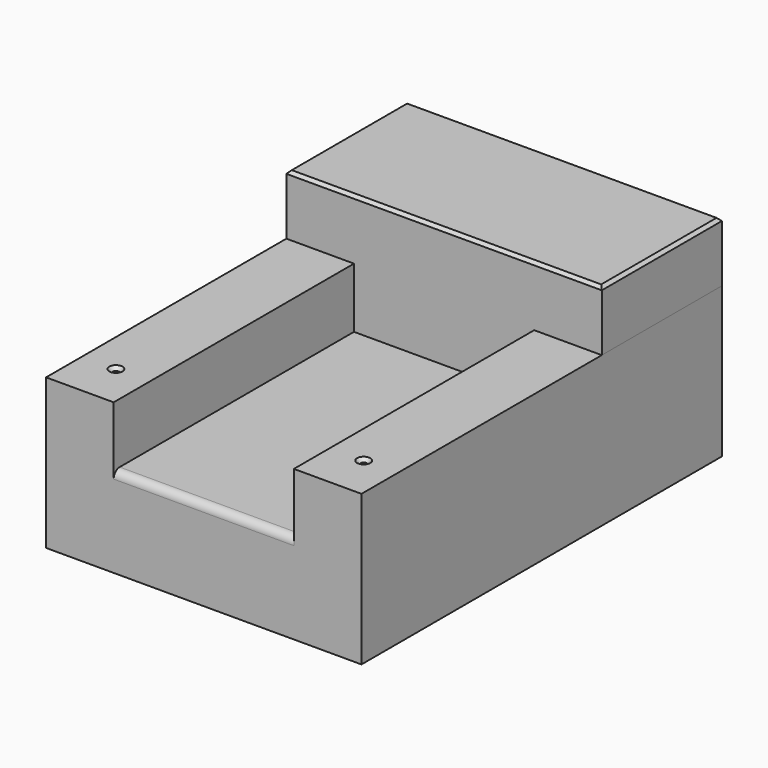
from build123d import *

# Parameters (mm, degrees)
F1_DEPTH       = 762
F3_D           = 11
F3_CSINK_D     = 22.4
F3_CSINK_ANGLE = 90
F5_DEPTH       = 254
F6_R           = 12.7
F7_SIZE        = 5.08


with BuildPart() as f1:
    # F0 (on Front) → F1 (new body)
    with BuildSketch(Plane.XZ):
        Polygon((114.3, 254), (0, 254), (0, 0), (533.4, 0), (533.4, 254), (419.1, 254), (419.1, 152.4), (114.3, 152.4), align=None)
    extrude(amount=F1_DEPTH)

    # F3 (through all)
    with Locations(Plane.XY.offset(254)):
        with Locations((57.15, -76.2), (476.25, -76.2), (476.25, -685.8), (57.15, -685.8)):
            CounterSinkHole(F3_D / 2, F3_CSINK_D / 2, counter_sink_angle=F3_CSINK_ANGLE)

    # F6
    f6_edges = [f1.edges().sort_by_distance(p)[0] for p in [
        (266.7, -762, 152.4),
    ]]
    fillet(f6_edges, radius=F6_R)


with BuildPart() as f5:
    # F4 (on Front) → F5 (new body)
    with BuildSketch(Plane.XZ):
        Polygon((0, 355.6), (0, 254), (114.3, 254), (114.3, 152.4), (419.1, 152.4), (419.1, 254), (533.4, 254), (533.4, 355.6), align=None)
    extrude(amount=F5_DEPTH)

    # F7
    f7_edges = [f5.edges().sort_by_distance(p)[0] for p in [
        (533.4, -127, 355.6),
        (0, -127, 355.6),
        (266.7, 0, 355.6),
        (266.7, -254, 355.6),
    ]]
    chamfer(f7_edges, length=F7_SIZE)


solid = Compound([f1.part, f5.part])
